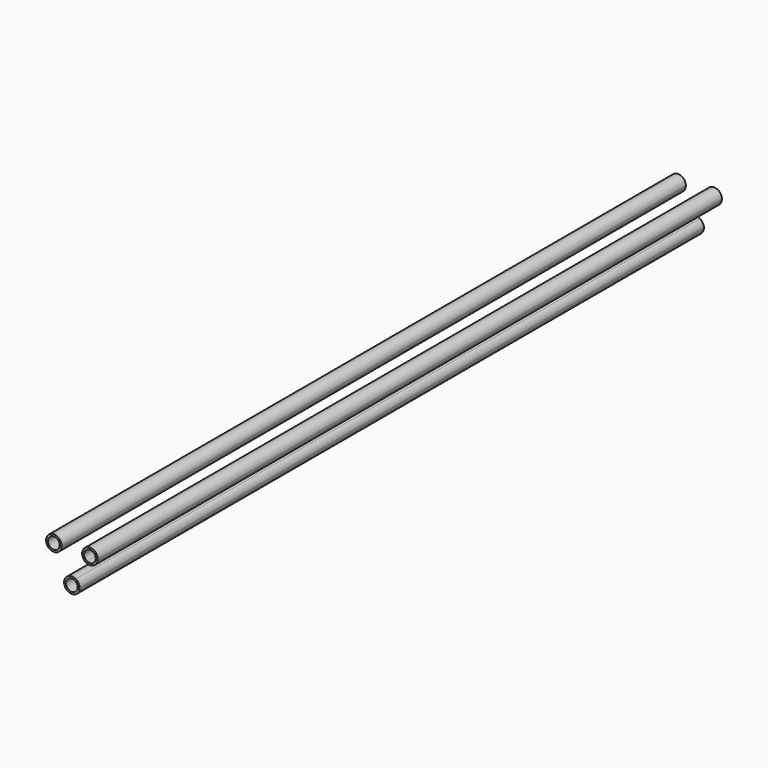
from build123d import *

# Parameters (mm, degrees)
F1_DEPTH = 1000


with BuildPart() as f1:
    # F0 (on Front) → F1 (new body)
    with BuildSketch(Plane.XZ):
        with BuildLine():
            Line((-19.344011, 33.504809), (-18.094011, 31.339746))
            ThreePointArc((-18.094011, 31.339746), (-14.433757, 35), (-13.094011, 40))
            Line((-13.094011, 40), (-15.594011, 40))
            ThreePointArc((-15.594011, 40), (-16.59882, 36.25), (-19.344011, 33.504809))
        make_face()
        with BuildLine():
            ThreePointArc((-13.094011, 40), (-31.754265, 45), (-18.094011, 31.339746))
            Line((-18.094011, 31.339746), (-19.344011, 33.504809))
            ThreePointArc((-19.344011, 33.504809), (-29.589201, 43.75), (-15.594011, 40))
            Line((-15.594011, 40), (-13.094011, 40))
        make_face()
        with BuildLine():
            ThreePointArc((13.094011, 40), (14.433757, 35), (18.094011, 31.339746))
            Line((18.094011, 31.339746), (19.344011, 33.504809))
            ThreePointArc((19.344011, 33.504809), (16.59882, 36.25), (15.594011, 40))
            Line((15.594011, 40), (13.094011, 40))
        make_face()
        with BuildLine():
            Line((19.344011, 33.504809), (18.094011, 31.339746))
            ThreePointArc((18.094011, 31.339746), (28.094011, 31.339746), (33.094011, 40))
            ThreePointArc((33.094011, 40), (23.094011, 50), (13.094011, 40))
            Line((13.094011, 40), (15.594011, 40))
            ThreePointArc((15.594011, 40), (23.094011, 47.5), (30.594011, 40))
            ThreePointArc((30.594011, 40), (26.844011, 33.504809), (19.344011, 33.504809))
        make_face()
        with BuildLine():
            ThreePointArc((-5, 8.660254), (-5, -8.660254), (10, 0))
            ThreePointArc((10, 0), (8.660254, 5), (5, 8.660254))
            Line((5, 8.660254), (3.75, 6.495191))
            ThreePointArc((3.75, 6.495191), (6.495191, 3.75), (7.5, 0))
            ThreePointArc((7.5, 0), (-3.75, -6.495191), (-3.75, 6.495191))
            Line((-3.75, 6.495191), (-5, 8.660254))
        make_face()
        with BuildLine():
            Line((3.75, 6.495191), (5, 8.660254))
            ThreePointArc((5, 8.660254), (0, 10), (-5, 8.660254))
            Line((-5, 8.660254), (-3.75, 6.495191))
            ThreePointArc((-3.75, 6.495191), (0, 7.5), (3.75, 6.495191))
        make_face()
    extrude(amount=F1_DEPTH)


solid = f1.part
